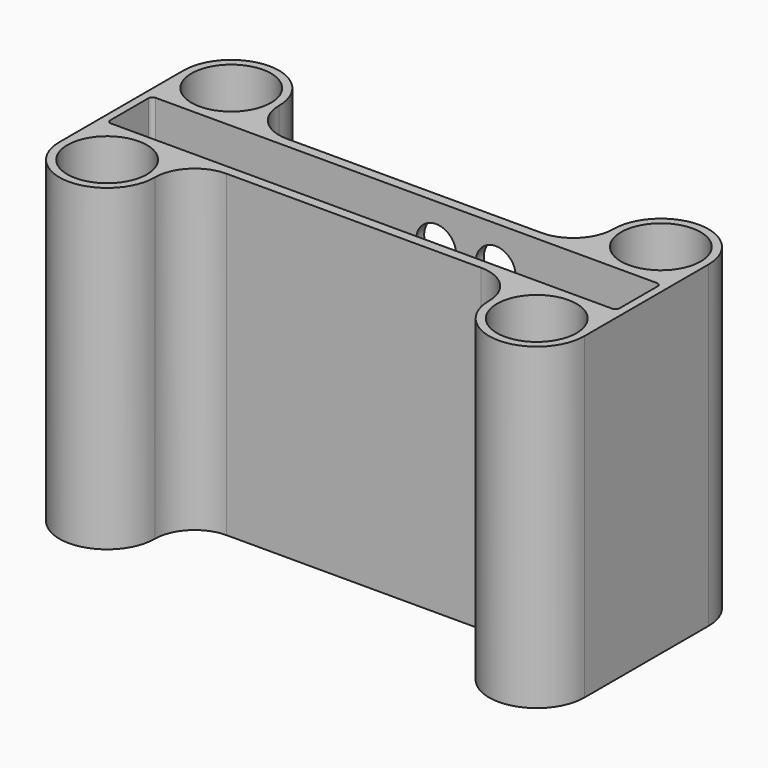
from build123d import *

# Parameters (mm, degrees)
F1_DEPTH = 80
F2_R     = 5
F3_DEPTH = 25


with BuildPart() as f1:
    # F0 (on Top) → F1 (new body)
    with BuildSketch(Plane.XY):
        with BuildLine():
            Line((44, 7), (63, 7))
            ThreePointArc((63, 7), (63.707107, 6.707107), (64, 6))
            Line((64, 6), (64, -6))
            ThreePointArc((64, -6), (63.707107, -6.707107), (63, -7))
            Line((63, -7), (44, -7))
            Line((44, -7), (44, -19.5))
            ThreePointArc((44, -19.5), (54, -9.5), (64, -19.5))
            Line((64, -19.5), (64, -7))
            Line((64, -7), (66, -7))
            Line((66, -7), (66, 7))
            Line((66, 7), (64, 7))
            Line((64, 7), (64, 19.5))
            ThreePointArc((64, 19.5), (54, 9.5), (44, 19.5))
            Line((44, 19.5), (44, 7))
        make_face()
        with BuildLine():
            Line((42, 7), (44, 7))
            Line((44, 7), (44, 19.5))
            ThreePointArc((44, 19.5), (54, 29.5), (64, 19.5))
            Line((64, 19.5), (64, 7))
            Line((64, 7), (66, 7))
            Line((66, 7), (66, 19.5))
            ThreePointArc((66, 19.5), (54, 31.5), (42, 19.5))
            Line((42, 19.5), (42, 7))
        make_face()
        with BuildLine():
            Line((-42, 7), (42, 7))
            Line((42, 7), (42, 19.5))
            ThreePointArc((42, 19.5), (39.071068, 12.428932), (32, 9.5))
            Line((32, 9.5), (-32, 9.5))
            ThreePointArc((-32, 9.5), (-39.071068, 12.428932), (-42, 19.5))
            Line((-42, 19.5), (-42, 7))
        make_face()
        with BuildLine():
            Line((-44, 7), (-42, 7))
            Line((-42, 7), (-42, 19.5))
            ThreePointArc((-42, 19.5), (-54, 31.5), (-66, 19.5))
            Line((-66, 19.5), (-66, 7))
            Line((-66, 7), (-64, 7))
            Line((-64, 7), (-64, 19.5))
            ThreePointArc((-64, 19.5), (-54, 29.5), (-44, 19.5))
            Line((-44, 19.5), (-44, 7))
        make_face()
        with BuildLine():
            Line((-63, 7), (-44, 7))
            Line((-44, 7), (-44, 19.5))
            ThreePointArc((-44, 19.5), (-54, 9.5), (-64, 19.5))
            Line((-64, 19.5), (-64, 7))
            Line((-64, 7), (-66, 7))
            Line((-66, 7), (-66, -6.902831))
            Line((-66, -6.902831), (-64, -7))
            Line((-64, -7), (-64, -19.5))
            ThreePointArc((-64, -19.5), (-54, -9.5), (-44, -19.5))
            Line((-44, -19.5), (-44, -7))
            Line((-44, -7), (-63, -7))
            ThreePointArc((-63, -7), (-63.707107, -6.707107), (-64, -6))
            Line((-64, -6), (-64, 6))
            ThreePointArc((-64, 6), (-63.707107, 6.707107), (-63, 7))
        make_face()
        with BuildLine():
            Line((44, -19.5), (44, -7))
            Line((44, -7), (42, -7))
            Line((42, -7), (42, -19.5))
            ThreePointArc((42, -19.5), (54, -31.5), (66, -19.5))
            Line((66, -19.5), (66, -7))
            Line((66, -7), (64, -7))
            Line((64, -7), (64, -19.5))
            ThreePointArc((64, -19.5), (54, -29.5), (44, -19.5))
        make_face()
        with BuildLine():
            Line((42, -19.5), (42, -7))
            Line((42, -7), (-42, -7))
            Line((-42, -7), (-42, -19.5))
            ThreePointArc((-42, -19.5), (-39.071068, -12.428932), (-32, -9.5))
            Line((-32, -9.5), (32, -9.5))
            ThreePointArc((32, -9.5), (39.071068, -12.428932), (42, -19.5))
        make_face()
        with BuildLine():
            Line((-42, -19.5), (-42, -7))
            Line((-42, -7), (-44, -7))
            Line((-44, -7), (-44, -19.5))
            ThreePointArc((-44, -19.5), (-54, -29.5), (-64, -19.5))
            Line((-64, -19.5), (-64, -7))
            Line((-64, -7), (-66, -6.902831))
            Line((-66, -6.902831), (-66, -19.5))
            ThreePointArc((-66, -19.5), (-54, -31.5), (-42, -19.5))
        make_face()
    extrude(amount=F1_DEPTH)

    # F2 (on Front) → F3 (cut)
    with BuildSketch(Plane.XZ):
        with Locations((22.5, 70)):
            Circle(F2_R)
        with Locations((7.5, 70)):
            Circle(F2_R)
    extrude(amount=-F3_DEPTH, mode=Mode.SUBTRACT)


solid = f1.part
